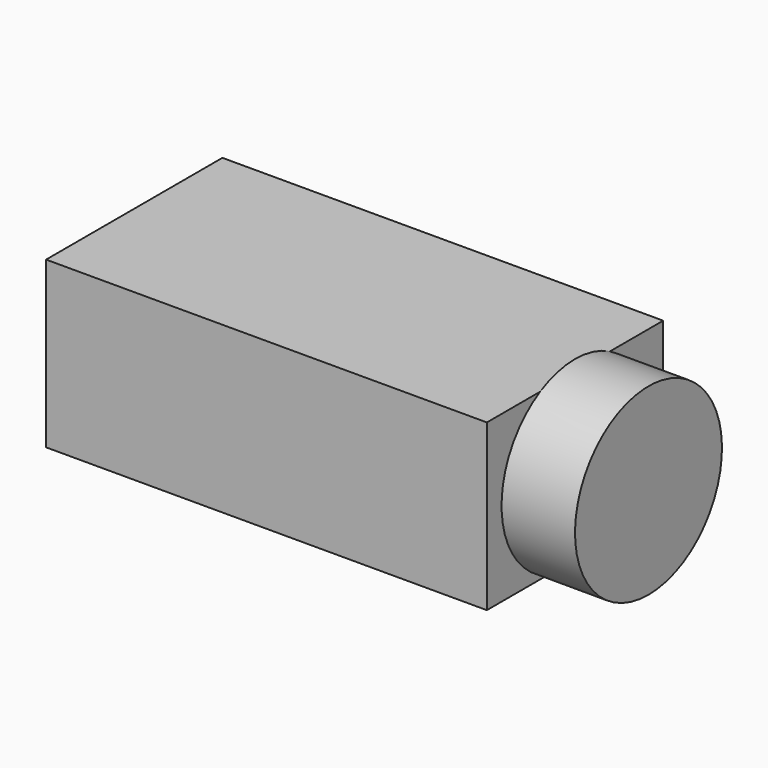
from build123d import *

# Parameters (mm, degrees)
BOX018_W                = 12
BOX018_H                = 6
BOX018_DEPTH            = 4.5
CYLINDER020_R           = 2.5
CYLINDER020_DEPTH       = 2
CYLINDER020_PITCH_ANGLE = 90


with BuildPart() as obj1:
    # Box018 → Box018 (new body)
    with BuildSketch(Plane.XY.offset(18)):
        with Locations((6, 3)):
            Rectangle(BOX018_W, BOX018_H)
    extrude(amount=BOX018_DEPTH)


with BuildPart() as audio_jack001:
    # Cylinder020 → Cylinder020 (new body)
    with BuildSketch(Plane.XY):
        Circle(CYLINDER020_R)
    extrude(amount=CYLINDER020_DEPTH)


with BuildPart() as audio_jack001_1:
    # Cylinder020 pitch: moved
    add(audio_jack001.part.rotate(Axis((0, 0, 0), (0, 1, 0)), CYLINDER020_PITCH_ANGLE))


with BuildPart() as audio_jack001_2:
    # Cylinder020 placement: moved
    add(audio_jack001_1.part.moved(Location((12, 3, 20.3))))

    # Fusion011: union obj1
    add(obj1.part)


with BuildPart() as audio_jack001_3:
    # Fusion011 placement: moved
    add(audio_jack001_2.part.moved(Location((8, 2, -10.5))))


solid = audio_jack001_3.part
